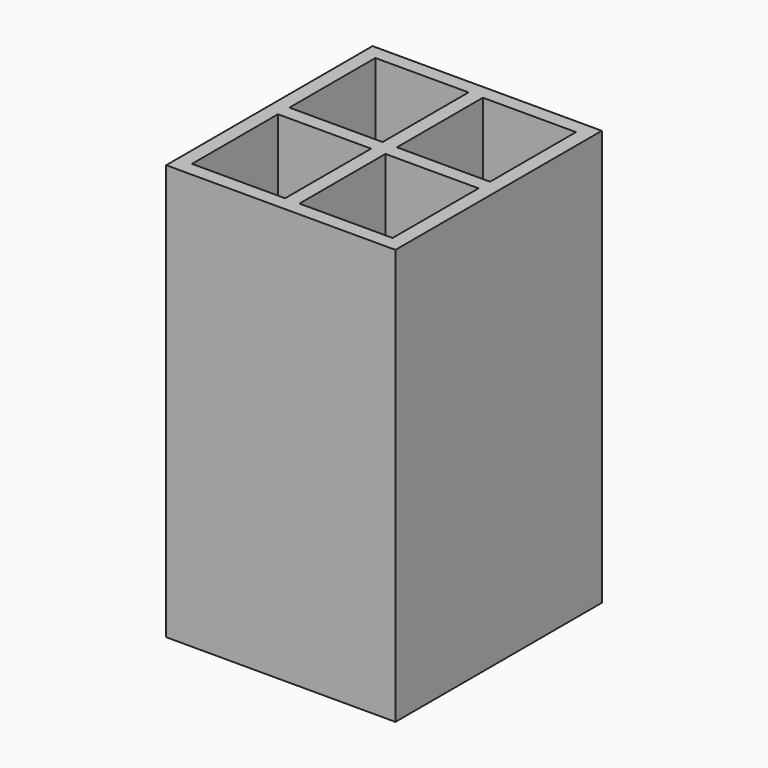
from build123d import *

# Parameters (mm, degrees)
F0_W      = 50.8
F0_H      = 57.15
F1_DEPTH  = 3.175
F2_W      = 50.8
F2_H      = 3.175
F3_DEPTH  = 88.9
F4_W      = 50.8
F4_H      = 3.175
F5_DEPTH  = 88.9
F6_W      = 3.175
F6_H      = 50.8
F7_DEPTH  = 88.9
F8_W      = 3.175
F8_H      = 50.8
F9_DEPTH  = 88.9
F10_W     = 3.175
F10_H     = 50.8
F11_DEPTH = 88.9
F12_W     = 44.45
F12_H     = 3.175
F13_DEPTH = 88.9


with BuildPart() as f1:
    # F0 (on Top) → F1 (new body)
    with BuildSketch(Plane.XY):
        Rectangle(F0_W, F0_H)
    extrude(amount=F1_DEPTH)

    # F2 (on face) → F3 (join)
    with BuildSketch(Plane.XY.offset(3.175)):
        with Locations((0, -26.9875)):
            Rectangle(F2_W, F2_H)
    extrude(amount=F3_DEPTH)

    # F4 (on face) → F5 (join)
    with BuildSketch(Plane.XY.offset(3.175)):
        with Locations((0, 26.9875)):
            Rectangle(F4_W, F4_H)
    extrude(amount=F5_DEPTH)

    # F6 (on face) → F7 (join)
    with BuildSketch(Plane.XY.offset(3.175)):
        with Locations((-23.8125, 0)):
            Rectangle(F6_W, F6_H)
    extrude(amount=F7_DEPTH)

    # F8 (on face) → F9 (join)
    with BuildSketch(Plane.XY.offset(3.175)):
        with Locations((23.8125, 0)):
            Rectangle(F8_W, F8_H)
    extrude(amount=F9_DEPTH)

    # F10 (on face) → F11 (join)
    with BuildSketch(Plane.XY.offset(3.175)):
        Rectangle(F10_W, F10_H)
    extrude(amount=F11_DEPTH)

    # F12 (on face) → F13 (join)
    with BuildSketch(Plane.XY.offset(3.175)):
        Rectangle(F12_W, F12_H)
        Rectangle(F12_W, F12_H)
    extrude(amount=F13_DEPTH)


solid = f1.part
